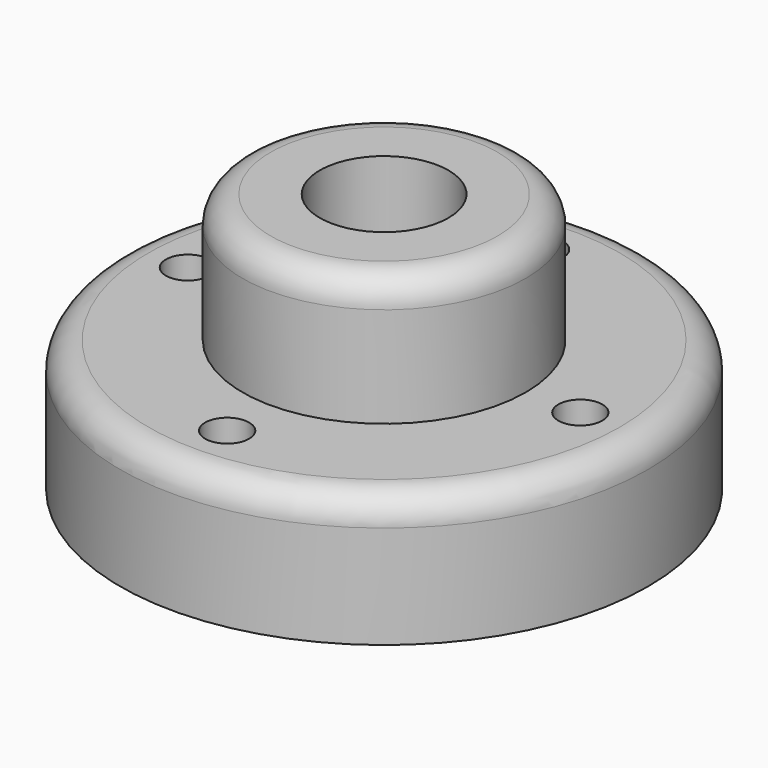
from build123d import *

# Parameters (mm, degrees)
F0_R     = 30
F0_R_2   = 2.5
F0_R_3   = 16.1
F0_R_4   = 7.315
F1_DEPTH = 14.9
F2_R     = 3.2
F3_DEPTH = 14.6
F4_R     = 3.2


with BuildPart() as f1:
    # F0 (on Top) → F1 (new body)
    with BuildSketch(Plane.XY):
        Circle(F0_R)
        with Locations((0, -22.3)):
            Circle(F0_R_2, mode=Mode.SUBTRACT)
        with Locations((-22.3, 0)):
            Circle(F0_R_2, mode=Mode.SUBTRACT)
        Circle(F0_R_3, mode=Mode.SUBTRACT)
        with Locations((22.3, 0)):
            Circle(F0_R_2, mode=Mode.SUBTRACT)
        with Locations((0, 22.3)):
            Circle(F0_R_2, mode=Mode.SUBTRACT)
        Circle(F0_R_3)
        Circle(F0_R_4, mode=Mode.SUBTRACT)
    extrude(amount=-F1_DEPTH)

    # F2
    f2_edges = [f1.edges().sort_by_distance(p)[0] for p in [
        (-30, 0, 0),
    ]]
    fillet(f2_edges, radius=F2_R)

    # F0 (on Top) → F3 (join)
    with BuildSketch(Plane.XY):
        Circle(F0_R_3)
        Circle(F0_R_4, mode=Mode.SUBTRACT)
    extrude(amount=F3_DEPTH)

    # F4
    f4_edges = [f1.edges().sort_by_distance(p)[0] for p in [
        (-16.1, 0, 14.6),
    ]]
    fillet(f4_edges, radius=F4_R)


solid = f1.part
